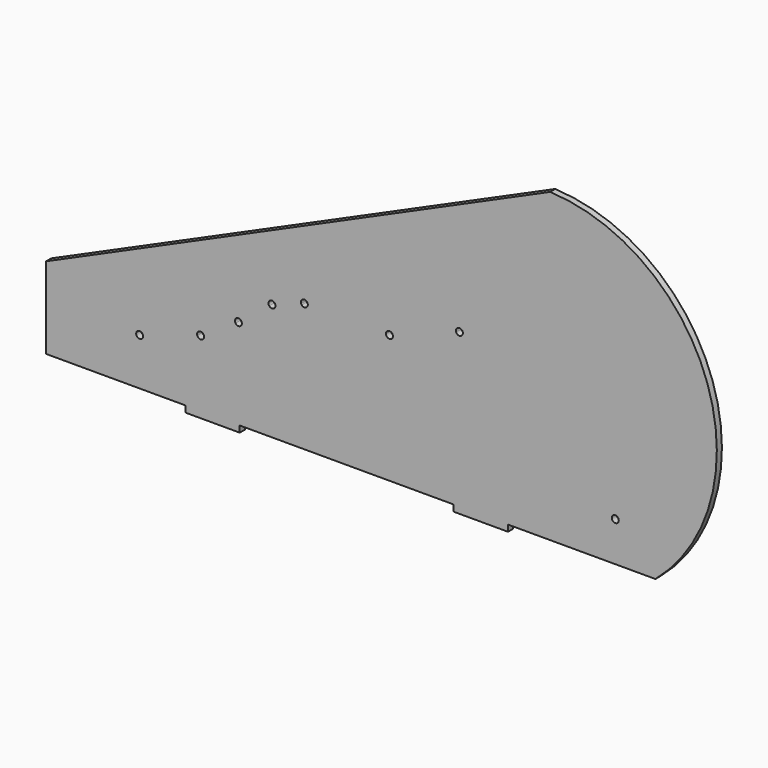
from build123d import *

# Parameters (mm, degrees)
F0_R     = 1.6256
F1_DEPTH = 2.9718


with BuildPart() as f1:
    # F0 (on Front) → F1 (new body)
    with BuildSketch(Plane.XZ):
        with BuildLine():
            ThreePointArc((216.986084, 72.877465), (218.795783, 71.831543), (220.139584, 73.432532))
            ThreePointArc((220.139584, 73.432532), (218.232184, 75.03352), (216.986084, 72.877465))
        make_face()
        with BuildLine():
            ThreePointArc((70.752836, 23.610366), (70.733686, 23.85915), (70.676688, 24.102072))
            ThreePointArc((70.676688, 24.102072), (67.520786, 23.361582), (70.752836, 23.610366))
        make_face()
        with BuildLine():
            Line((260.896319, 144.802258), (25.4, 39.681211))
            Line((25.4, 39.681211), (25.4, 1.581211))
            Line((25.4, 1.581211), (90.4748, 1.581211))
            Line((90.4748, 1.581211), (90.4748, -1.390589))
            Line((90.4748, -1.390589), (115.8748, -1.390589))
            Line((115.8748, -1.390589), (115.8748, 1.581211))
            Line((115.8748, 1.581211), (215.811484, 1.581211))
            Line((215.811484, 1.581211), (215.811484, -1.390589))
            Line((215.811484, -1.390589), (241.227301, -1.390589))
            Line((241.227301, -1.390589), (241.227301, 1.581211))
            Line((241.227301, 1.581211), (310.102867, 1.581211))
            ThreePointArc((310.102867, 1.581211), (334.385206, 89.987396), (260.896319, 144.802258))
        make_face()
        with BuildLine():
            ThreePointArc((70.752836, 23.610366), (67.520786, 23.361582), (70.676688, 24.102072))
            ThreePointArc((70.676688, 24.102072), (70.733686, 23.85915), (70.752836, 23.610366))
        make_face(mode=Mode.SUBTRACT)
        with BuildLine():
            ThreePointArc((96.048958, 32.153762), (96.910351, 34.118272), (98.969804, 33.518311))
            ThreePointArc((98.969804, 33.518311), (99.159165, 33.100022), (99.22401, 32.645468))
            ThreePointArc((99.22401, 32.645468), (97.847193, 31.039018), (96.048958, 32.153762))
        make_face(mode=Mode.SUBTRACT)
        with BuildLine():
            ThreePointArc((113.883712, 43.010474), (114.314419, 45.209093), (116.531911, 44.889469))
            ThreePointArc((116.531911, 44.889469), (116.791034, 44.415764), (116.880706, 43.883316))
            ThreePointArc((116.880706, 43.883316), (115.709659, 42.322561), (113.883712, 43.010474))
        make_face(mode=Mode.SUBTRACT)
        with BuildLine():
            ThreePointArc((129.659065, 55.23398), (130.152459, 57.664507), (132.469333, 56.779638))
            ThreePointArc((132.469333, 56.779638), (132.53827, 56.513791), (132.56147, 56.240133))
            ThreePointArc((132.56147, 56.240133), (131.468318, 54.704205), (129.659065, 55.23398))
        make_face(mode=Mode.SUBTRACT)
        with BuildLine():
            ThreePointArc((144.74166, 62.517484), (146.558763, 63.104845), (147.680459, 61.559317))
            ThreePointArc((147.680459, 61.559317), (146.604455, 60.029441), (144.800882, 60.524852))
            ThreePointArc((144.800882, 60.524852), (144.639337, 60.760022), (144.521396, 61.019812))
            ThreePointArc((144.521396, 61.019812), (144.44656, 61.795852), (144.74166, 62.517484))
        make_face(mode=Mode.SUBTRACT)
        with Locations((291.349751, 20.115141)):
            Circle(F0_R, mode=Mode.SUBTRACT)
        with BuildLine():
            ThreePointArc((184.205659, 61.559317), (185.549459, 63.160306), (187.359158, 62.114383))
            ThreePointArc((187.359158, 62.114383), (187.432248, 61.841117), (187.456859, 61.559317))
            ThreePointArc((187.456859, 61.559317), (185.831259, 59.933717), (184.205659, 61.559317))
        make_face(mode=Mode.SUBTRACT)
        with BuildLine():
            ThreePointArc((216.986084, 72.877465), (218.232184, 75.03352), (220.139584, 73.432532))
            ThreePointArc((220.139584, 73.432532), (218.795783, 71.831543), (216.986084, 72.877465))
        make_face(mode=Mode.SUBTRACT)
    extrude(amount=F1_DEPTH)


solid = f1.part
